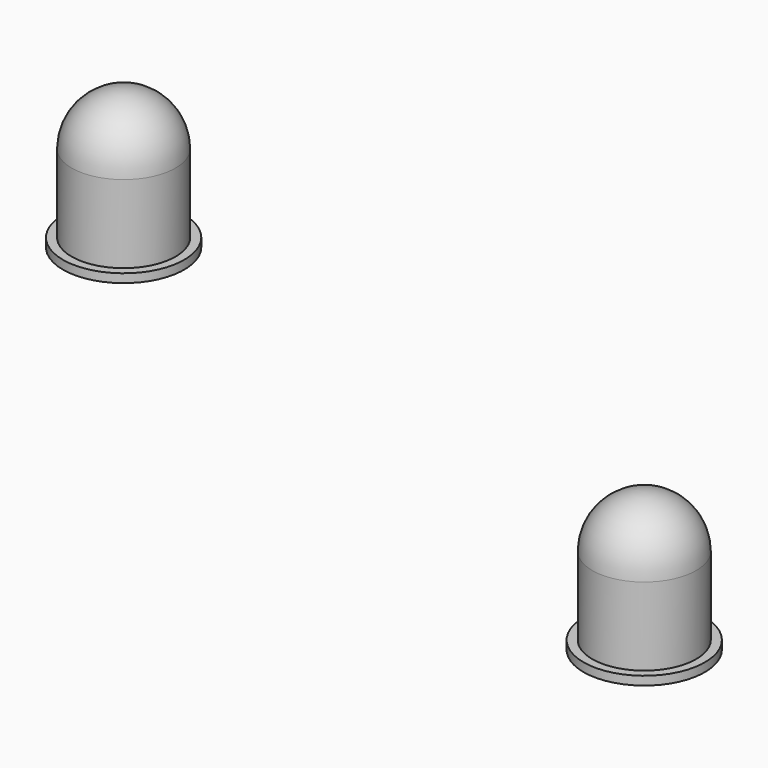
from build123d import *


with BuildPart() as f1:
    # F0 (on Front) → F1 (revolve)
    with BuildSketch(Plane.XZ):
        with BuildLine():
            Line((-52.8598544966, 24.0044232727), (-49.3598544966, 24.0044232727))
            Line((-49.3598544966, 24.0044232727), (-49.3598544966, 32.0044232727))
            ThreePointArc((-49.3598544966, 32.0044232727), (-51.4811748402, 31.1257436162), (-52.3598544966, 29.0044232727))
            Line((-52.3598544966, 29.0044232727), (-52.3598544966, 24.5044232727))
            Line((-52.3598544966, 24.5044232727), (-52.8598544966, 24.5044232727))
            Line((-52.8598544966, 24.5044232727), (-52.8598544966, 24.0044232727))
        make_face()
    revolve(axis=Axis((-49.3598544966, 0, 28.0044232727), (0, 0, -1)))


with BuildPart() as f3:
    # F2 (on Front) → F3 (revolve)
    with BuildSketch(Plane.XZ):
        with BuildLine():
            Line((-22.8143190812, 13.3280132235), (-19.3143190812, 13.3280132235))
            Line((-19.3143190812, 13.3280132235), (-19.3143190812, 21.3280132235))
            ThreePointArc((-19.3143190812, 21.3280132235), (-21.4356394247, 20.449333567), (-22.3143190812, 18.3280132235))
            Line((-22.3143190812, 18.3280132235), (-22.3143190812, 13.8280132235))
            Line((-22.3143190812, 13.8280132235), (-22.8143190812, 13.8280132235))
            Line((-22.8143190812, 13.8280132235), (-22.8143190812, 13.3280132235))
        make_face()
    revolve(axis=Axis((-19.3143190812, 0, 17.3280132235), (0, 0, -1)))


solid = Compound([f1.part, f3.part])
